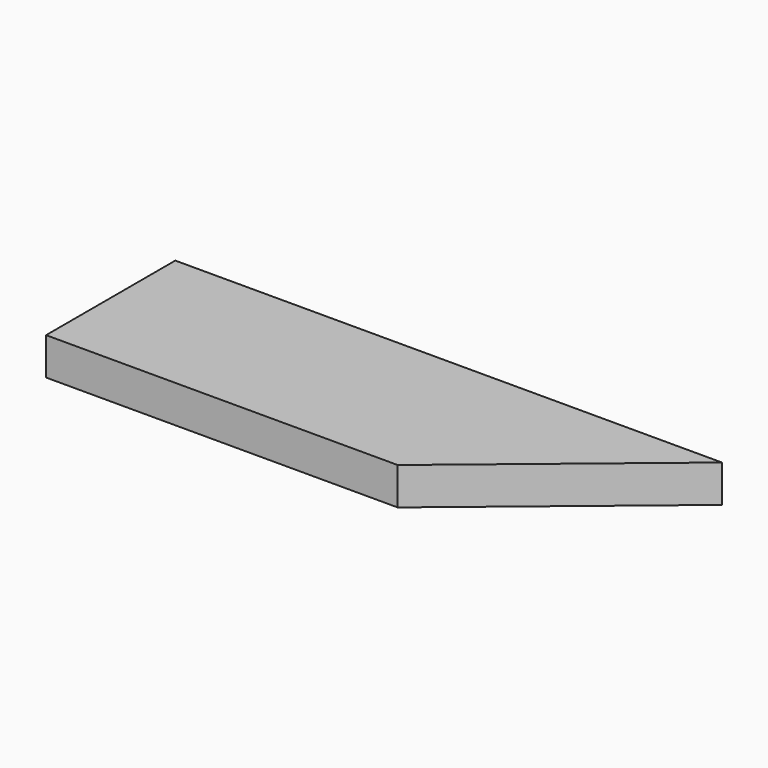
from build123d import *

# Parameters (mm, degrees)
F0_W     = 94.148986
F0_H     = 43.248646
F1_DEPTH = 10


with BuildPart() as f1:
    # F0 (on Top) → F1 (new body)
    with BuildSketch(Plane.XY):
        Polygon((47.074493, 21.624323), (47.074493, -21.624323), (99.305555, 21.624323), align=None)
        Rectangle(F0_W, F0_H)
    extrude(amount=F1_DEPTH)


solid = f1.part
